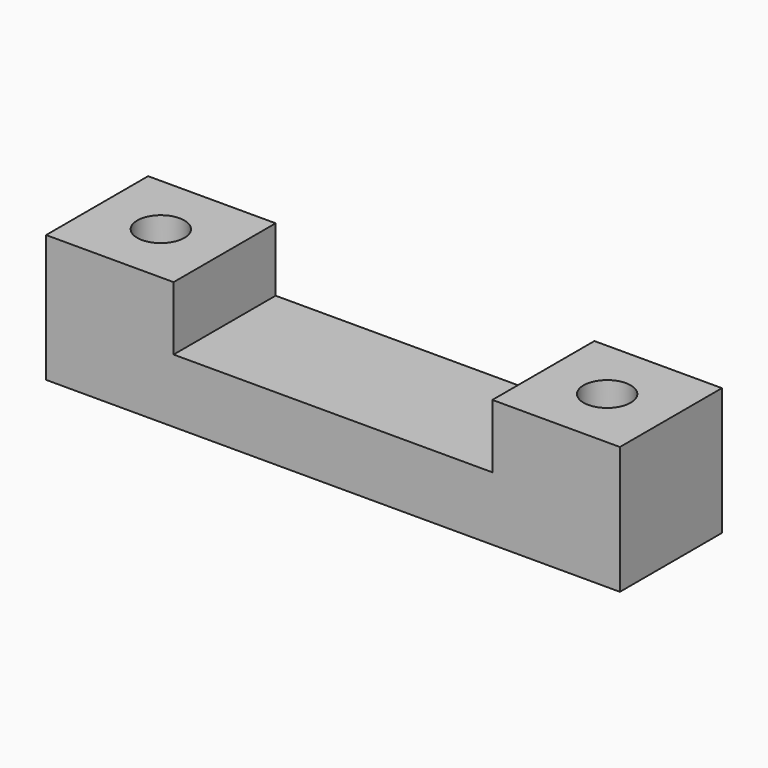
from build123d import *

# Parameters (mm, degrees)
F0_W     = 6.35
F0_H     = 6.35
F0_R     = 1.1751262937
F1_DEPTH = 6.35
F0_W_2   = 7.9375
F2_DEPTH = 3.175


with BuildPart() as f1:
    # F0 (on Top) → F1 (new body)
    with BuildSketch(Plane.XY):
        with Locations((3.175, 3.175)):
            Rectangle(F0_W, F0_H)
        with Locations((3.175, 3.175)):
            Circle(F0_R, mode=Mode.SUBTRACT)
    extrude(amount=F1_DEPTH)



with BuildPart() as f1b:
    # F0 (on Top) → F1, piece 2 (new body)
    with BuildSketch(Plane.XY):
        with Locations((25.4, 3.175)):
            Rectangle(F0_W, F0_H)
        with Locations((25.4, 3.175)):
            Circle(F0_R, mode=Mode.SUBTRACT)
    extrude(amount=F1_DEPTH)


with BuildPart() as f1_1:
    add(f1.part)

    add(f1b.part)  # F2 merges F1b
    # F0 (on Top) → F2 (join)
    with BuildSketch(Plane.XY):
        with Locations((10.31875, 3.175)):
            Rectangle(F0_W_2, F0_H)
        with Locations((18.25625, 3.175)):
            Rectangle(F0_W_2, F0_H)
    extrude(amount=F2_DEPTH)


solid = f1_1.part
